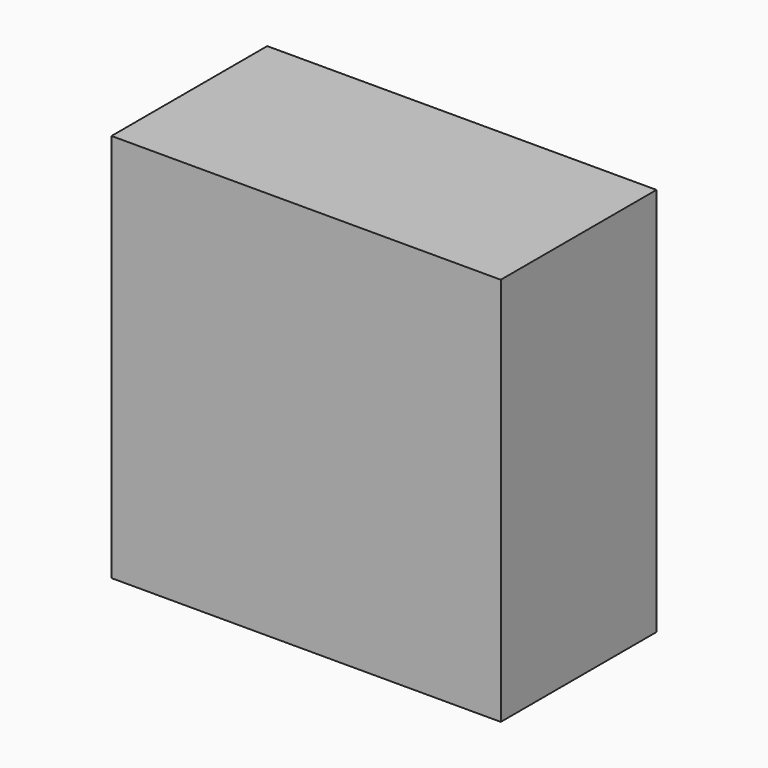
from build123d import *

# Parameters (mm, degrees)
F0_W     = 40
F0_H     = 40
F1_DEPTH = 20
F3_DEPTH = 10


with BuildPart() as f1:
    # F0 (on Front) → F1 (new body)
    with BuildSketch(Plane.XZ):
        Rectangle(F0_W, F0_H)
    extrude(amount=F1_DEPTH)

    # F2 (on face) → F3 (join)
    with BuildSketch(Plane(origin=(0, 0, 0), x_dir=(-1, 0, 0), z_dir=(0, 1, 0))):
        Polygon((-11.804534, -3.665976), (-0.161252, -12.359628), (11.704875, -3.972695), (7.395262, 9.904368), (-7.134352, 10.09393), align=None)
    extrude(amount=F3_DEPTH)


solid = f1.part
